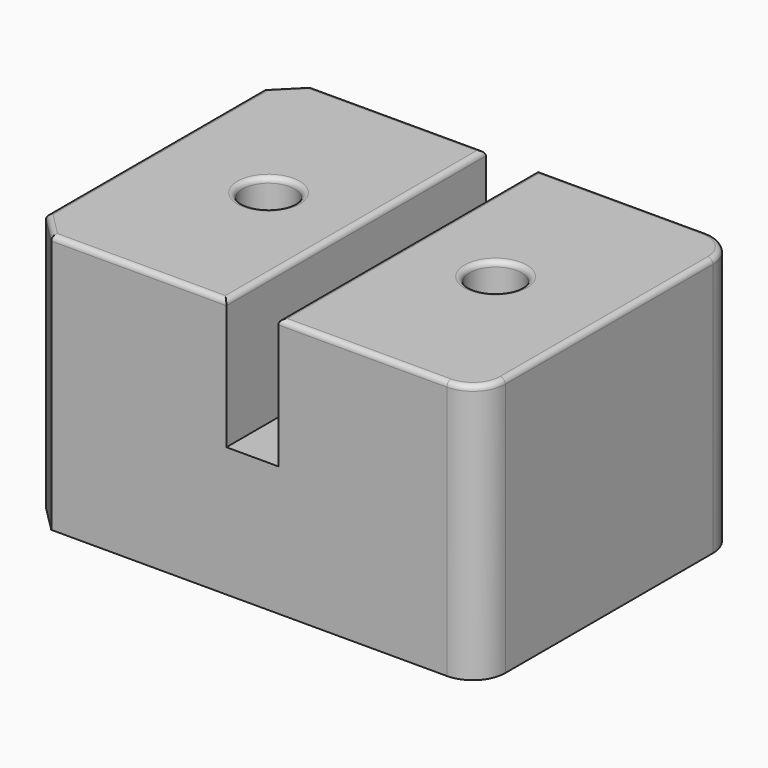
from build123d import *

# Parameters (mm, degrees)
SKETCH_W     = 70
SKETCH_H     = 50
SKETCH_R     = 4
PAD_DEPTH    = 40
SKETCH001_W  = 8
SKETCH001_H  = 50
POCKET_DEPTH = 20
FILLET_R     = 5
CHAMFER_SIZE = 4
FILLET001_R  = 0.8
FILLET002_R  = 0.8


with BuildPart() as part:
    # Sketch → Pad (new body)
    with BuildSketch(Plane.XY):
        with Locations((35, 25)):
            Rectangle(SKETCH_W, SKETCH_H)
        with Locations((17.5, 25)):
            Circle(SKETCH_R, mode=Mode.SUBTRACT)
        with Locations((52.5, 25)):
            Circle(SKETCH_R, mode=Mode.SUBTRACT)
    extrude(amount=PAD_DEPTH)

    # Sketch001 (on Face8 of Pad) → Pocket (cut)
    with BuildSketch(Plane.XY.offset(40)):
        with Locations((35, 25)):
            Rectangle(SKETCH001_W, SKETCH001_H)
    extrude(amount=-POCKET_DEPTH, mode=Mode.SUBTRACT)

    # Fillet
    fillet_edges = [part.edges().sort_by_distance(p)[0] for p in [
        (70, 0, 20),
        (70, 50, 20),
    ]]
    fillet(fillet_edges, radius=FILLET_R)

    # Chamfer
    chamfer_edges = [part.edges().sort_by_distance(p)[0] for p in [
        (0, 50, 20),
        (0, 0, 20),
    ]]
    chamfer(chamfer_edges, length=CHAMFER_SIZE)

    # Fillet001
    fillet001_edges = [part.edges().sort_by_distance(p)[0] for p in [
        (52, 50, 40),
        (68.535534, 48.535534, 40),
        (39, 25, 40),
        (70, 25, 40),
        (52, 0, 40),
        (68.535534, 1.464466, 40),
        (48.5, 25, 40),
    ]]
    fillet(fillet001_edges, radius=FILLET001_R)

    # Fillet002
    fillet002_edges = [part.edges().sort_by_distance(p)[0] for p in [
        (17.5, 50, 40),
        (2, 48, 40),
        (31, 25, 40),
        (0, 25, 40),
        (17.5, 0, 40),
        (2, 2, 40),
        (13.5, 25, 40),
    ]]
    fillet(fillet002_edges, radius=FILLET002_R)


solid = part.part
